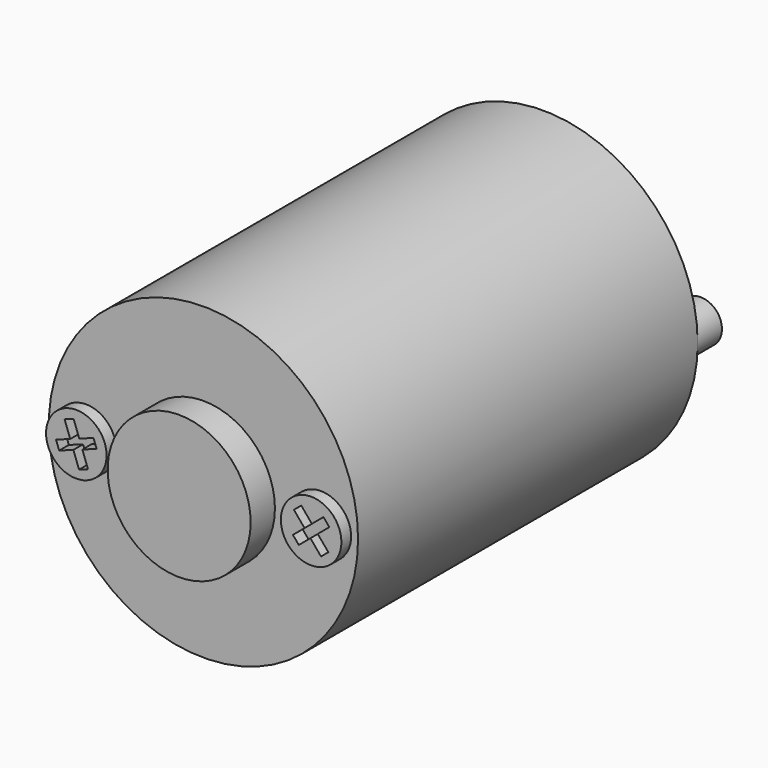
from build123d import *

# Parameters (mm, degrees)
F0_R     = 25.5
F1_DEPTH = 70
F2_R     = 11.791029
F3_DEPTH = 5
F4_R     = 12.078347
F4_R_2   = 3.5
F5_DEPTH = 5
F6_R     = 2.5
F7_DEPTH = 7
F8_R     = 4.991822
F9_DEPTH = 2


with BuildPart() as f1:
    # F0 (on Front) → F1 (new body)
    with BuildSketch(Plane.XZ):
        Circle(F0_R)
    extrude(amount=F1_DEPTH)

    # F2 (on face) → F3 (join)
    with BuildSketch(Plane.XZ.offset(70)):
        Circle(F2_R)
    extrude(amount=F3_DEPTH)

    # F4 (on face) → F5 (join)
    with BuildSketch(Plane(origin=(0, 0, 0), x_dir=(-1, 0, 0), z_dir=(0, 1, 0))):
        Circle(F4_R)
        with Locations((-22, 0)):
            Circle(F4_R_2)
        with Locations((22, 0)):
            Circle(F4_R_2)
    extrude(amount=F5_DEPTH)

    # F6 (on face) → F7 (join)
    with BuildSketch(Plane(origin=(0, 5, 0), x_dir=(-1, 0, 0), z_dir=(0, 1, 0))):
        Circle(F6_R)
    extrude(amount=F7_DEPTH)

    # F8 (on face) → F9 (join)
    with BuildSketch(Plane.XZ.offset(70)):
        with Locations((-19.360058, 0)):
            Circle(F8_R)
        Polygon((-20.359145, 0.43953), (-21.290478, 2.998349), (-19.808572, 3.537719), (-18.877238, 0.9789), (-16.529848, 1.83328), (-16.013582, 0.41485), (-18.360971, -0.43953), (-17.429638, -2.998349), (-18.911544, -3.537719), (-19.842878, -0.9789), (-22.190268, -1.83328), (-22.706534, -0.41485), align=None, mode=Mode.SUBTRACT)
        with Locations((19.360058, 0)):
            Circle(F8_R)
        Polygon((19.241159, -1.085), (17.327549, -2.690709), (16.357286, -1.534394), (18.270895, 0.071316), (16.52056, 2.157284), (17.728622, 3.170968), (19.478957, 1.085), (21.392567, 2.690709), (22.36283, 1.534394), (20.449221, -0.071316), (22.199556, -2.157284), (20.991494, -3.170968), align=None, mode=Mode.SUBTRACT)
    extrude(amount=F9_DEPTH)


solid = f1.part
